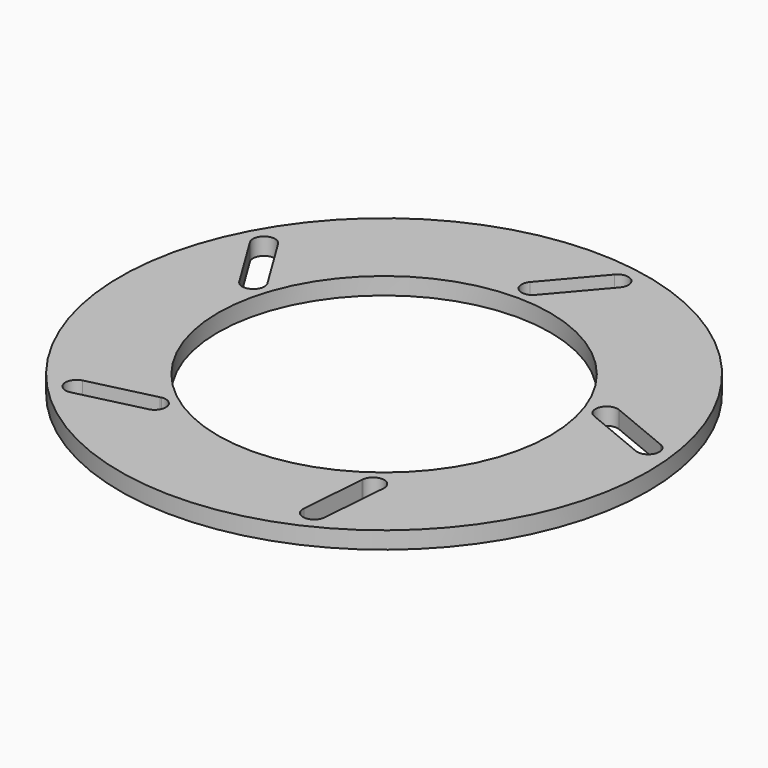
from build123d import *

# Parameters (mm, degrees)
F0_R     = 27.400357
F2_DEPTH = 1.778
F1_R     = 17.246114
F3_DEPTH = 1.778
F6_DEPTH = 1.778
F7_COUNT = 5


with BuildPart() as f2:
    # F0 (on Top) → F2 (new body)
    with BuildSketch(Plane.XY):
        Circle(F0_R)
    extrude(amount=F2_DEPTH)

    # F1 (on Top) → F3 (cut, through all)
    with BuildSketch(Plane.XY):
        Circle(F1_R)
    extrude(amount=F3_DEPTH, mode=Mode.SUBTRACT)


with BuildPart() as f6:
    # F5 (on Top) → F6 (new body, through all)
    with BuildSketch(Plane.XY):
        with BuildLine():
            Line((-0.888398, 20.0147), (-0.864621, 20.042582))
            ThreePointArc((-0.864621, 20.042582), (-0.87662, 20.028736), (-0.888398, 20.0147))
        make_face()
        with BuildLine():
            Line((3.656133, 25.34403), (-0.864621, 20.042582))
            Line((-0.864621, 20.042582), (-0.888398, 20.0147))
            ThreePointArc((-0.888398, 20.0147), (-0.765731, 18.420441), (0.831965, 18.484277))
            Line((0.831965, 18.484277), (0.917938, 18.585037))
            Line((0.917938, 18.585037), (5.409154, 23.848715))
            ThreePointArc((5.409154, 23.848715), (5.280411, 25.473012), (3.656133, 25.34403))
        make_face()
        with BuildLine():
            Line((0.917938, 18.585037), (0.831965, 18.484277))
            ThreePointArc((0.831965, 18.484277), (0.876401, 18.53342), (0.917938, 18.585037))
        make_face()
    extrude(amount=F6_DEPTH)


with BuildPart() as f7_1:
    # F7: instance of F6
    add(f6.part.rotate(Axis((0, 0, 1.187779), (0, 0, -1)), 1 * 360 / F7_COUNT))


with BuildPart() as f7_2:
    # F7: instance of F6
    add(f6.part.rotate(Axis((0, 0, 1.187779), (0, 0, -1)), 2 * 360 / F7_COUNT))


with BuildPart() as f7_3:
    # F7: instance of F6
    add(f6.part.rotate(Axis((0, 0, 1.187779), (0, 0, -1)), 3 * 360 / F7_COUNT))


with BuildPart() as f7_4:
    # F7: instance of F6
    add(f6.part.rotate(Axis((0, 0, 1.187779), (0, 0, -1)), 4 * 360 / F7_COUNT))


with BuildPart() as f2_1:
    add(f2.part)

    # F8: cut F6, F7_1, F7_2, F7_3, F7_4
    add(f6.part, mode=Mode.SUBTRACT)
    add(f7_1.part, mode=Mode.SUBTRACT)
    add(f7_2.part, mode=Mode.SUBTRACT)
    add(f7_3.part, mode=Mode.SUBTRACT)
    add(f7_4.part, mode=Mode.SUBTRACT)


solid = f2_1.part
